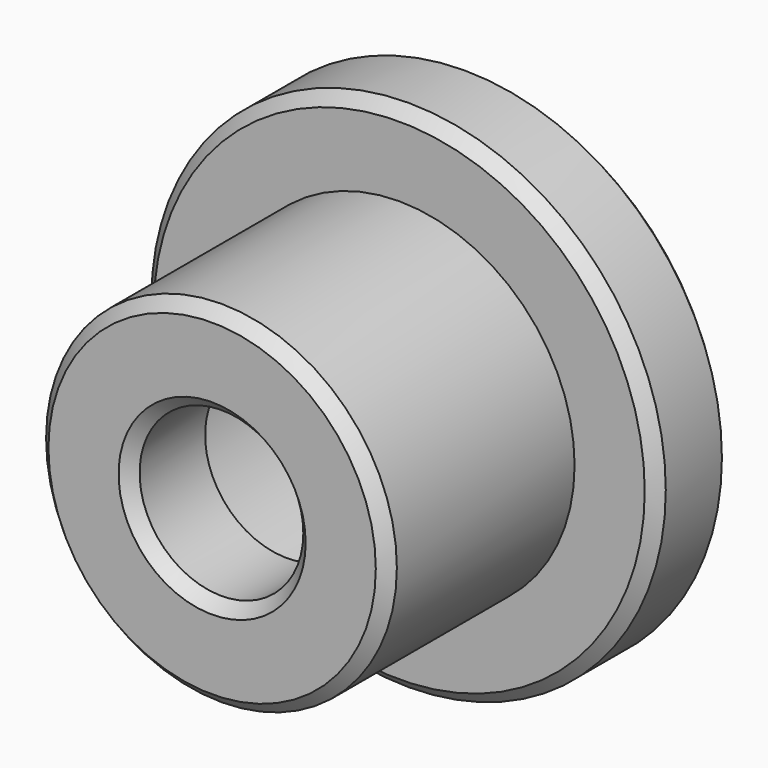
from build123d import *

# Parameters (mm, degrees)
F0_R     = 11
F1_DEPTH = 4
F2_R     = 7.5
F5_DEPTH = 10
F3_R     = 6
F6_DEPTH = 10
F7_R     = 3.5
F4_DEPTH = 25
F8_SIZE  = 0.5


with BuildPart() as f1:
    # F0 (on Front) → F1 (new body)
    with BuildSketch(Plane.XZ):
        Circle(F0_R)
    extrude(amount=F1_DEPTH)

    # F2 (on face) → F5 (join)
    with BuildSketch(Plane.XZ.offset(4)):
        Circle(F2_R)
    extrude(amount=F5_DEPTH)

    # F3 (on face) → F6 (cut)
    with BuildSketch(Plane(origin=(0, 0, 0), x_dir=(-1, 0, 0), z_dir=(0, 1, 0))):
        Circle(F3_R)
    extrude(amount=-F6_DEPTH, mode=Mode.SUBTRACT)

    # F7 (on face) → F4 (cut)
    with BuildSketch(Plane.XZ.offset(14)):
        Circle(F7_R)
    extrude(amount=-F4_DEPTH, mode=Mode.SUBTRACT)

    # F8
    f8_edges = [f1.edges().sort_by_distance(p)[0] for p in [
        (-7.5, -14, 0),
        (-3.5, -14, 0),
        (11, -2, 0),
        (-11, 0, 0),
        (-11, -4, 0),
    ]]
    chamfer(f8_edges, length=F8_SIZE)


solid = f1.part
